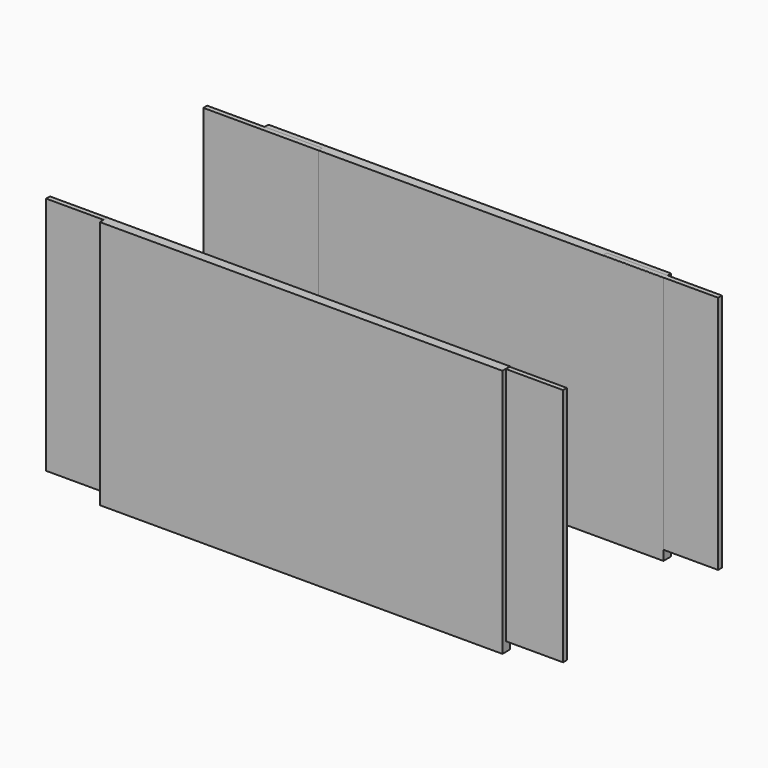
from build123d import *

# Parameters (mm, degrees)
BOX009_W     = 60
BOX009_H     = 2.5
BOX009_DEPTH = 125
BOX002_W     = 210
BOX002_H     = 5
BOX002_DEPTH = 130
BOX003_W     = 210
BOX003_H     = 5
BOX003_DEPTH = 130
BOX011_W     = 60
BOX011_H     = 2.5
BOX011_DEPTH = 125
BOX012_W     = 60
BOX012_H     = 2.5
BOX012_DEPTH = 125
BOX013_W     = 60
BOX013_H     = 2.5
BOX013_DEPTH = 125


with BuildPart() as cube009:
    # Box009 → Box009 (new body)
    with BuildSketch(Plane(origin=(-30, 2.5, 5), x_dir=(1, 0, 0), z_dir=(0, 0, 1))):
        with Locations((30, 1.25)):
            Rectangle(BOX009_W, BOX009_H)
    extrude(amount=BOX009_DEPTH)


with BuildPart() as cube002:
    # Box002 → Box002 (new body)
    with BuildSketch(Plane(origin=(0, 105, 0), x_dir=(1, 0, 0), z_dir=(0, 0, 1))):
        with Locations((105, 2.5)):
            Rectangle(BOX002_W, BOX002_H)
    extrude(amount=BOX002_DEPTH)


with BuildPart() as cube003:
    # Box003 → Box003 (new body)
    with BuildSketch(Plane.XY):
        with Locations((105, 2.5)):
            Rectangle(BOX003_W, BOX003_H)
    extrude(amount=BOX003_DEPTH)


with BuildPart() as cube011:
    # Box011 → Box011 (new body)
    with BuildSketch(Plane(origin=(178.449559, 105.068698, 5.091172), x_dir=(1, 0, 0), z_dir=(0, 0, 1))):
        with Locations((30, 1.25)):
            Rectangle(BOX011_W, BOX011_H)
    extrude(amount=BOX011_DEPTH)


with BuildPart() as cube012:
    # Box012 → Box012 (new body)
    with BuildSketch(Plane(origin=(-30, 105, 5), x_dir=(1, 0, 0), z_dir=(0, 0, 1))):
        with Locations((30, 1.25)):
            Rectangle(BOX012_W, BOX012_H)
    extrude(amount=BOX012_DEPTH)


with BuildPart() as cube013:
    # Box013 → Box013 (new body)
    with BuildSketch(Plane(origin=(179.839662, 2.264511, 4.901054), x_dir=(1, 0, 0), z_dir=(0, 0, 1))):
        with Locations((30, 1.25)):
            Rectangle(BOX013_W, BOX013_H)
    extrude(amount=BOX013_DEPTH)


solid = Compound([cube009.part, cube002.part, cube003.part, cube011.part, cube012.part, cube013.part])
